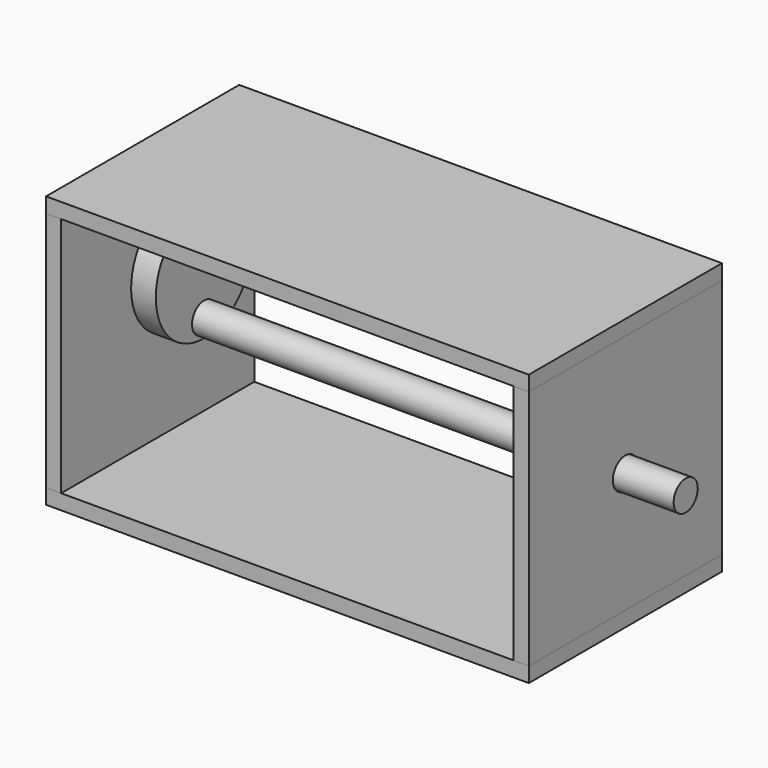
from build123d import *

# Parameters (mm, degrees)
F1_DEPTH      = 50.8
F2_DEPTH      = 50.8
F2_DEPTH_BACK = 50.8
F0_W          = 10.3929936886
F0_H          = 25.4
F4_R          = 6.604
F4_R_2        = 6.35
F5_DEPTH      = 203.201
F6_DEPTH      = 203.2
F6_DEPTH_BACK = 25.4


with BuildPart() as f1:
    # F0 (on Front) → F1 (new body, symmetric)
    with BuildSketch(Plane.XZ):
        Polygon((-101.6, 114.3), (-101.6, 107.95), (-95.25, 107.95), (95.25, 107.95), (101.6, 107.95), (101.6, 114.3), align=None)
    extrude(amount=F1_DEPTH, both=True)


with BuildPart() as f1b:
    # F0 (on Front) → F1, piece 2 (new body, symmetric)
    with BuildSketch(Plane.XZ):
        Polygon((-101.6, 6.35), (-101.6, 0), (101.6, 0), (101.6, 6.35), (95.25, 6.35), (-95.25, 6.35), align=None)
    extrude(amount=F1_DEPTH, both=True)


with BuildPart() as f2:
    # F0 (on Front) → F2 (new body, two sides)
    with BuildSketch(Plane.XZ) as f2_sk:
        Polygon((-101.6, 107.95), (-101.6, 6.35), (-95.25, 6.35), (-95.25, 57.15), (-95.25, 107.95), align=None)
    extrude(amount=F2_DEPTH)
    extrude(f2_sk.sketch, amount=-F2_DEPTH_BACK)


with BuildPart() as f2b:
    # F0 (on Front) → F2, piece 2 (new body, two sides)
    with BuildSketch(Plane.XZ) as f2_2_sk:
        Polygon((95.25, 6.35), (101.6, 6.35), (101.6, 107.95), (95.25, 107.95), (95.25, 57.15), align=None)
    extrude(amount=F2_DEPTH)
    extrude(f2_2_sk.sketch, amount=-F2_DEPTH_BACK)


with BuildPart() as f3:
    # F0 (on Front) → F3 (revolve)
    with BuildSketch(Plane.XZ):
        with Locations((-80.9298753738, 87.5712479413)):
            Rectangle(F0_W, F0_H)
    revolve(axis=Axis((-80.9298753738, 0, 74.8712479413), (1, 0, 0)))


with BuildPart() as f5_tool:
    # F4 (on face) → F5 (new body, through all)
    with BuildSketch(Plane.YZ.offset(101.6)):
        with Locations((0, 57.15)):
            Circle(F4_R)
        with Locations((0, 57.15)):
            Circle(F4_R_2, mode=Mode.SUBTRACT)
        with Locations((0, 57.15)):
            Circle(F4_R_2)
    extrude(amount=-F5_DEPTH)


with BuildPart() as f2_1:
    add(f2.part)

    # F5: cut by f5_tool
    add(f5_tool.part, mode=Mode.SUBTRACT)


with BuildPart() as f2b_1:
    add(f2b.part)

    # F5: cut by f5_tool
    add(f5_tool.part, mode=Mode.SUBTRACT)


with BuildPart() as f6:
    # F4 (on face) → F6 (new body, two sides)
    with BuildSketch(Plane.YZ.offset(101.6)) as f6_sk:
        with Locations((0, 57.15)):
            Circle(F4_R_2)
    extrude(amount=-F6_DEPTH)
    extrude(f6_sk.sketch, amount=F6_DEPTH_BACK)


with BuildPart() as f3_1:
    add(f3.part)

    # F7: cut F6
    add(f6.part, mode=Mode.SUBTRACT)


solid = Compound([f1.part, f1b.part, f2_1.part, f2b_1.part, f6.part, f3_1.part])
